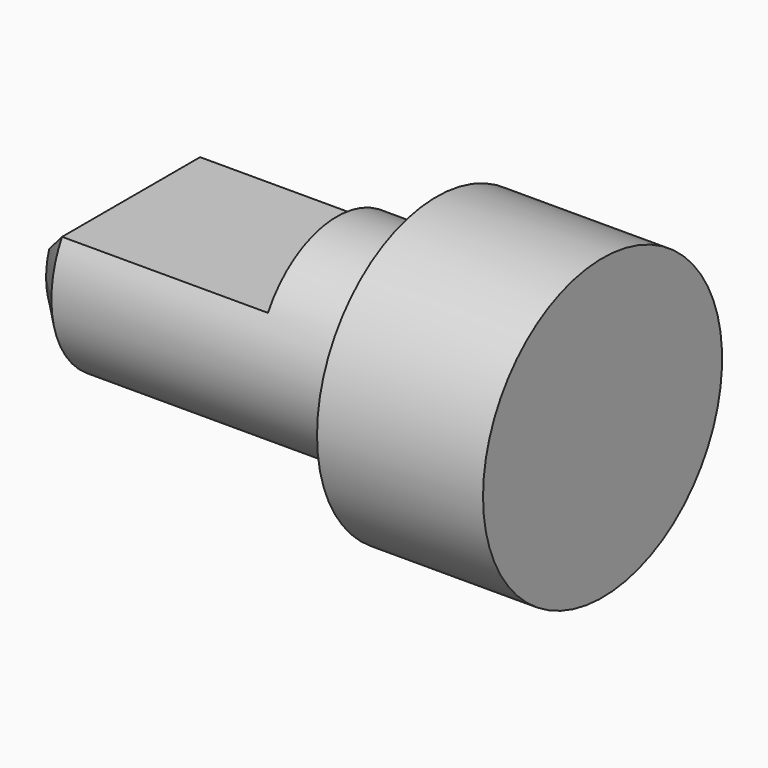
from build123d import *

# Parameters (mm, degrees)
SKETCH001_R  = 4.5
PAD001_DEPTH = 5
SKETCH002_R  = 3
PAD002_DEPTH = 10
SKETCH003_W  = 9
SKETCH003_H  = 3
POCKET_DEPTH = 7
CHAMFER_SIZE = 0.8


with BuildPart() as part:
    # Sketch001 (on Face1 of ShapeBinder) → Pad001 (new body)
    with BuildSketch(Plane(origin=(-5.1, 0, 0), x_dir=(0, -1, 0), z_dir=(-1, 0, 0))):
        with Locations((2.5, 6.5)):
            Circle(SKETCH001_R)
    extrude(amount=PAD001_DEPTH)

    # Sketch002 (on Face3 of Pad001) → Pad002 (join)
    with BuildSketch(Plane(origin=(-10.1, 0, 0), x_dir=(0, -1, 0), z_dir=(-1, 0, 0))):
        with Locations((2.5, 6.5)):
            Circle(SKETCH002_R)
    extrude(amount=PAD002_DEPTH)

    # Sketch003 (on Face5 of Pad002) → Pocket (cut)
    with BuildSketch(Plane(origin=(-20.1, 0, 0), x_dir=(0, -1, 0), z_dir=(-1, 0, 0))):
        with Locations((2.5, 9.5)):
            Rectangle(SKETCH003_W, SKETCH003_H)
    extrude(amount=-POCKET_DEPTH, mode=Mode.SUBTRACT)

    # Chamfer
    chamfer_edges = [part.edges().sort_by_distance(p)[0] for p in [
        (-20.1, -5.397777, 7.276457),
        (-20.1, -2.5, 8),
        (-20.1, -1.723543, 3.602223),
    ]]
    chamfer(chamfer_edges, length=CHAMFER_SIZE)


solid = part.part
